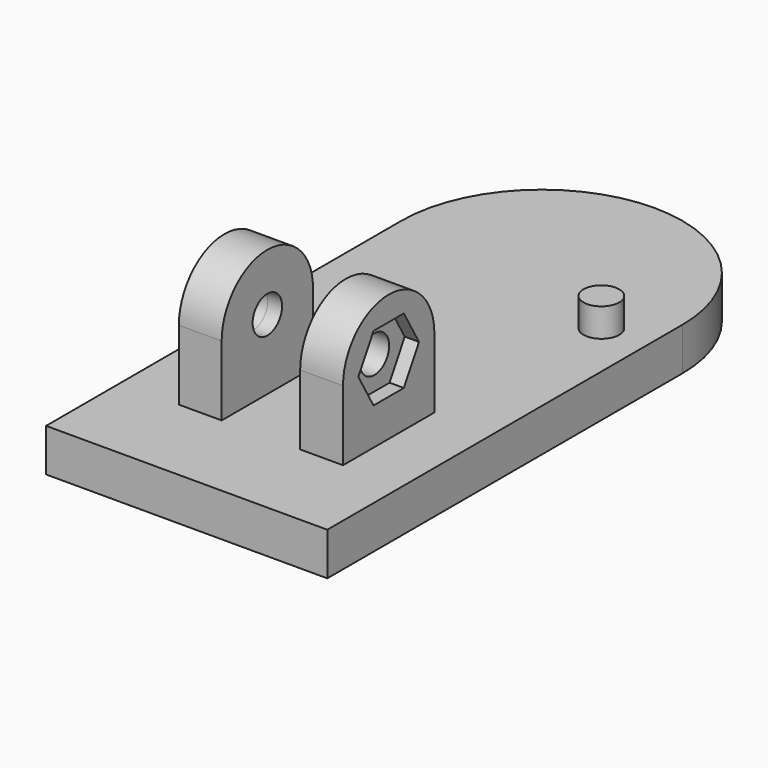
from build123d import *

# Parameters (mm, degrees)
F0_W      = 3
F0_H      = 8
F1_DEPTH  = 3
F2_DEPTH  = 4.9
F3_DEPTH  = 4.9
F5_DEPTH  = 3
F7_DEPTH  = 3
F8_DEPTH  = 25
F9_DEPTH  = 1
F11_DEPTH = 3
F12_R     = 1.8630386708
F13_DEPTH = 1
F14_R     = 1.9023250727
F15_DEPTH = 1
F16_R     = 1.25
F17_DEPTH = 2
F18_DEPTH = 25


with BuildPart() as f1:
    # F0 (on Top) → F1 (new body)
    with BuildSketch(Plane.XY):
        with BuildLine():
            Line((9.35, -30.6), (9.35, 0))
            ThreePointArc((9.35, 0), (0, -9.35), (-9.35, 0))
            Line((-9.35, 0), (-9.35, -30.6))
            Line((-9.35, -30.6), (9.35, -30.6))
        make_face()
        with Locations((-4.25, -20.6)):
            Rectangle(F0_W, F0_H, mode=Mode.SUBTRACT)
        with Locations((4.25, -20.6)):
            Rectangle(F0_W, F0_H, mode=Mode.SUBTRACT)
        with BuildLine():
            ThreePointArc((-9.35, 0), (0, -9.35), (9.35, 0))
            ThreePointArc((9.35, 0), (0, 9.35), (-9.35, 0))
        make_face()
        with Locations((4.25, -20.6)):
            Rectangle(F0_W, F0_H)
        with Locations((-4.25, -20.6)):
            Rectangle(F0_W, F0_H)
    extrude(amount=-F1_DEPTH)

    # F0 (on Top) → F2 (join)
    with BuildSketch(Plane.XY):
        with Locations((4.25, -20.6)):
            Rectangle(F0_W, F0_H)
    extrude(amount=F2_DEPTH)

    # F0 (on Top) → F3 (join)
    with BuildSketch(Plane.XY):
        with Locations((-4.25, -20.6)):
            Rectangle(F0_W, F0_H)
    extrude(amount=F3_DEPTH)

    # F4 (on face) → F5 (join)
    with BuildSketch(Plane(origin=(-5.75, 0, 0), x_dir=(0, -1, 0), z_dir=(-1, 0, 0))):
        with BuildLine():
            Line((16.6, 4.9), (24.6, 4.9))
            ThreePointArc((24.6, 4.9), (20.6, 8.9), (16.6, 4.9))
        make_face()
    extrude(amount=-F5_DEPTH)

    # F6 (on face) → F7 (join)
    with BuildSketch(Plane.YZ.offset(5.75)):
        with BuildLine():
            Line((-17.944, 4.9), (-16.6, 4.9))
            ThreePointArc((-16.6, 4.9), (-20.6, 8.9), (-24.6, 4.9))
            Line((-24.6, 4.9), (-23.256, 4.9))
            Line((-23.256, 4.9), (-21.928, 7.2001634725))
            Line((-21.928, 7.2001634725), (-19.272, 7.2001634725))
            Line((-19.272, 7.2001634725), (-17.944, 4.9))
        make_face()
        with BuildLine():
            Line((-19.311, 4.9), (-17.944, 4.9))
            Line((-17.944, 4.9), (-19.272, 7.2001634725))
            Line((-19.272, 7.2001634725), (-21.928, 7.2001634725))
            Line((-21.928, 7.2001634725), (-23.256, 4.9))
            Line((-23.256, 4.9), (-21.889, 4.9))
            ThreePointArc((-21.889, 4.9), (-20.6, 6.189), (-19.311, 4.9))
        make_face()
    extrude(amount=-F7_DEPTH)

    # F6 (on face) → F8 (cut)
    with BuildSketch(Plane.YZ.offset(5.75)):
        with BuildLine():
            Line((-21.889, 4.9), (-19.311, 4.9))
            ThreePointArc((-19.311, 4.9), (-20.6, 6.189), (-21.889, 4.9))
        make_face()
        with BuildLine():
            ThreePointArc((-21.889, 4.9), (-20.6, 3.611), (-19.311, 4.9))
            Line((-19.311, 4.9), (-21.889, 4.9))
        make_face()
    extrude(amount=-F8_DEPTH, mode=Mode.SUBTRACT)

    # F6 (on face) → F9 (cut)
    with BuildSketch(Plane.YZ.offset(5.75)):
        with BuildLine():
            Line((-19.311, 4.9), (-17.944, 4.9))
            Line((-17.944, 4.9), (-19.272, 7.2001634725))
            Line((-19.272, 7.2001634725), (-21.928, 7.2001634725))
            Line((-21.928, 7.2001634725), (-23.256, 4.9))
            Line((-23.256, 4.9), (-21.889, 4.9))
            ThreePointArc((-21.889, 4.9), (-20.6, 6.189), (-19.311, 4.9))
        make_face()
        with BuildLine():
            Line((-19.272, 2.5998365275), (-17.944, 4.9))
            Line((-17.944, 4.9), (-19.311, 4.9))
            ThreePointArc((-19.311, 4.9), (-20.6, 3.611), (-21.889, 4.9))
            Line((-21.889, 4.9), (-23.256, 4.9))
            Line((-23.256, 4.9), (-21.928, 2.5998365275))
            Line((-21.928, 2.5998365275), (-19.272, 2.5998365275))
        make_face()
    extrude(amount=-F9_DEPTH, mode=Mode.SUBTRACT)

    # F10 (on face) → F11 (join)
    with BuildSketch(Plane.XY):
        with BuildLine():
            Line((9.85, -31.1), (9.85, 0))
            ThreePointArc((9.85, 0), (0, 9.85), (-9.85, 0))
            Line((-9.85, 0), (-9.85, -31.1))
            Line((-9.85, -31.1), (9.85, -31.1))
        make_face()
        with BuildLine():
            Line((-9.35, -30.6), (-9.35, 0))
            ThreePointArc((-9.35, 0), (0, 9.35), (9.35, 0))
            Line((9.35, 0), (9.35, -30.6))
            Line((9.35, -30.6), (-9.35, -30.6))
        make_face(mode=Mode.SUBTRACT)
    extrude(amount=-F11_DEPTH)

    # F12 (on face) → F13 (join)
    with BuildSketch(Plane.YZ.offset(-2.75)):
        with Locations((-20.6, 4.9)):
            Circle(F12_R)
    extrude(amount=-F13_DEPTH)

    # F14 (on face) → F15 (join)
    with BuildSketch(Plane(origin=(2.75, 0, 0), x_dir=(0, -1, 0), z_dir=(-1, 0, 0))):
        with Locations((20.6, 4.9)):
            Circle(F14_R)
    extrude(amount=-F15_DEPTH)

    # F16 (on face) → F17 (join)
    with BuildSketch(Plane.XY):
        with Locations((6.65, -3.1)):
            Circle(F16_R)
    extrude(amount=F17_DEPTH)

    # F18 (cut): a face of the model
    f18_faces = [f1.faces().sort_by_distance(p)[0] for p in [
        (-3.75, -20.6, 4.9),
    ]]
    extrude(f18_faces, amount=-F18_DEPTH, mode=Mode.SUBTRACT)


solid = f1.part
